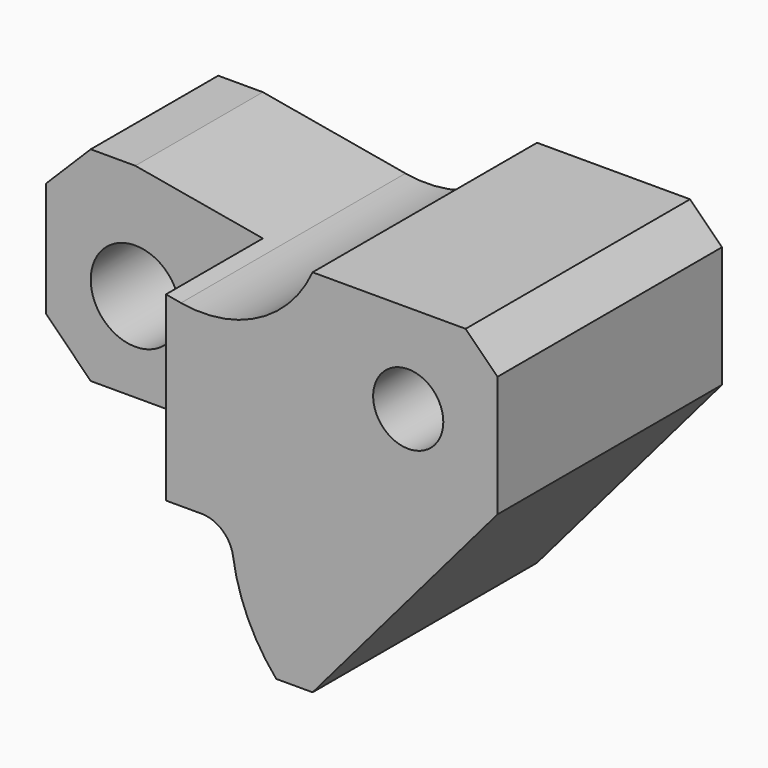
from build123d import *

# Parameters (mm, degrees)
F0_R     = 7
F1_DEPTH = 44
F2_R     = 7
F3_DEPTH = 19
F2_R_2   = 5.5
F4_DEPTH = 44.001


with BuildPart() as f1:
    # F0 (on Front) → F1 (new body)
    with BuildSketch(Plane.XZ):
        with BuildLine():
            Line((-7, 18), (-14, 11))
            Line((-14, 11), (-14, -7))
            Line((-14, -7), (-7, -14))
            Line((-7, -14), (25.575539, -14))
            ThreePointArc((25.575539, -14), (28.840775, -15.213414), (30.521178, -18.264706))
            ThreePointArc((30.521178, -18.264706), (32.858008, -26.115672), (37.29698, -33))
            Line((37.29698, -33), (43, -33))
            Line((43, -33), (72, 1))
            Line((72, 1), (72, 20))
            Line((72, 20), (67, 25))
            Line((67, 25), (43, 25))
            ThreePointArc((43, 25), (34.561099, 15.982044), (22.361381, 14.057085))
            Line((22.361381, 14.057085), (0, 18))
            Line((0, 18), (-7, 18))
        make_face()
        Circle(F0_R, mode=Mode.SUBTRACT)
    extrude(amount=F1_DEPTH)

    # F2 (on face) → F3 (cut)
    with BuildSketch(Plane.XZ.offset(44)):
        Polygon((20, -14), (20, 14.47346), (0, 18), (-7, 18), (-14, 11), (-14, -7), (-7, -14), align=None)
        Circle(F2_R, mode=Mode.SUBTRACT)
    extrude(amount=-F3_DEPTH, mode=Mode.SUBTRACT)

    # F2 (on face) → F4 (cut, through all)
    with BuildSketch(Plane.XZ.offset(44)):
        with Locations((58, 11)):
            Circle(F2_R_2)
    extrude(amount=-F4_DEPTH, mode=Mode.SUBTRACT)


solid = f1.part
